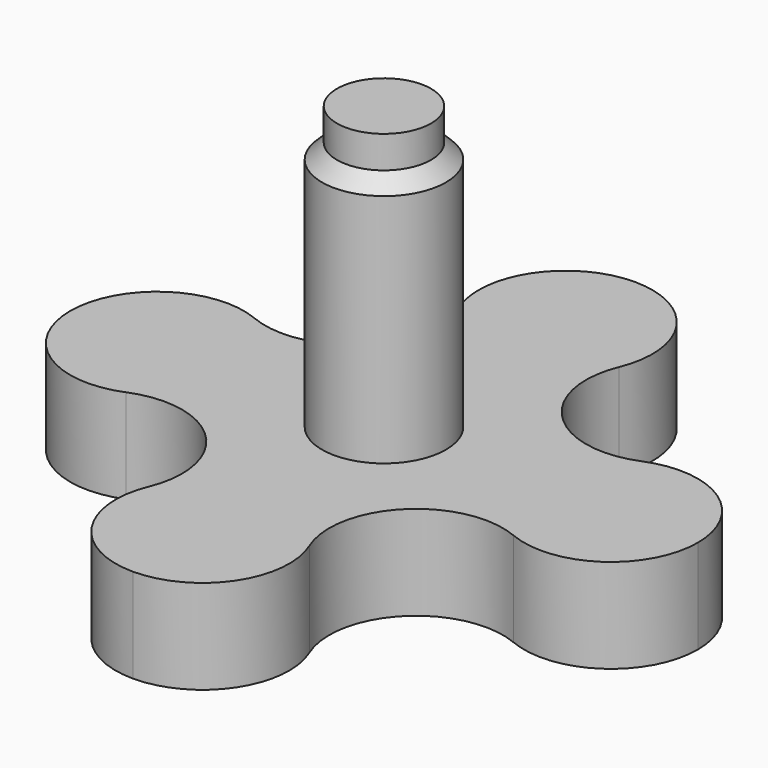
from build123d import *

# Parameters (mm, degrees)
F3_DEPTH = 24.001


with BuildPart() as f1:
    # F0 (on Front) → F1 (revolve)
    with BuildSketch(Plane.XZ):
        Polygon((3, 24), (0, 24), (0, 0), (20, 0), (20, 6), (3.95, 6), (3.95, 21), (3, 21.95), align=None)
    revolve(axis=Axis((0, 0, 6.128194), (0, 0, -1)))

    # F2 (on face) → F3 (cut, through all)
    with BuildSketch(Plane(origin=(0, 0, 0), x_dir=(1, 0, 0), z_dir=(0, 0, -1))):
        with BuildLine():
            ThreePointArc((0, -20), (14.142136, -14.142136), (20, 0))
            ThreePointArc((20, 0), (17.539915, -4.602495), (12.346331, -5.114018))
            ThreePointArc((12.346331, -5.114018), (6.313936, -6.313936), (5.114018, -12.346331))
            ThreePointArc((5.114018, -12.346331), (4.602495, -17.539915), (0, -20))
        make_face()
        with BuildLine():
            ThreePointArc((12.346331, 5.114018), (17.539915, 4.602495), (20, 0))
            ThreePointArc((20, 0), (14.142136, 14.142136), (0, 20))
            ThreePointArc((0, 20), (4.602495, 17.539915), (5.114018, 12.346331))
            ThreePointArc((5.114018, 12.346331), (6.313936, 6.313936), (12.346331, 5.114018))
        make_face()
        with BuildLine():
            ThreePointArc((-5.114018, 12.346331), (-4.602495, 17.539915), (0, 20))
            ThreePointArc((0, 20), (-14.142136, 14.142136), (-20, 0))
            ThreePointArc((-20, 0), (-17.539915, 4.602495), (-12.346331, 5.114018))
            ThreePointArc((-12.346331, 5.114018), (-6.313936, 6.313936), (-5.114018, 12.346331))
        make_face()
        with BuildLine():
            ThreePointArc((-20, 0), (-14.142136, -14.142136), (0, -20))
            ThreePointArc((0, -20), (-4.602495, -17.539915), (-5.114018, -12.346331))
            ThreePointArc((-5.114018, -12.346331), (-6.313936, -6.313936), (-12.346331, -5.114018))
            ThreePointArc((-12.346331, -5.114018), (-17.539915, -4.602495), (-20, 0))
        make_face()
    extrude(amount=-F3_DEPTH, mode=Mode.SUBTRACT)


solid = f1.part
